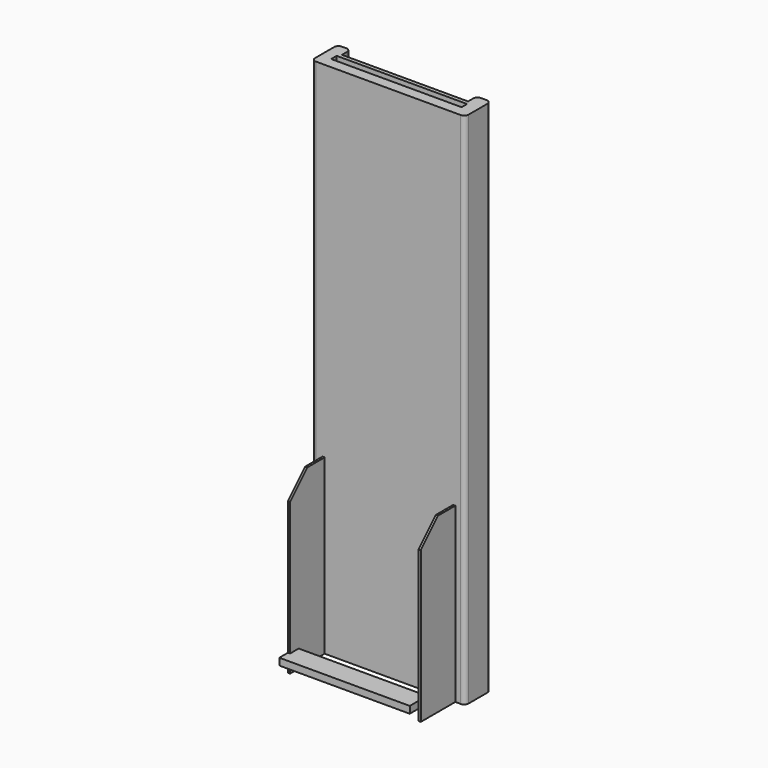
from build123d import *

# Parameters (mm, degrees)
BOX_W                  = 60.4
BOX_H                  = 10
BOX_DEPTH              = 3.2
BOX003_W               = 60.4
BOX003_H               = 250
BOX003_DEPTH           = 3.2
BOX001_W               = 60.4
BOX001_H               = 250
BOX001_DEPTH           = 3.2
BOX004_W               = 58.4
BOX004_H               = 250
BOX004_DEPTH           = 13.2
BOX005_W               = 58.4
BOX005_H               = 250
BOX005_DEPTH           = 13.2
BOX002_W               = 71
BOX002_H               = 240
BOX002_DEPTH           = 15
CUT001_PLACEMENT_ANGLE = 270
BOX006_W               = 1
BOX006_H               = 20
BOX006_DEPTH           = 80
BOX007_W               = 1
BOX007_H               = 20
BOX007_DEPTH           = 80
FILLET_R               = 2
CHAMFER_SIZE           = 10


with BuildPart() as single_magnet:
    # Box → Box (new body)
    with BuildSketch(Plane.XY):
        with Locations((30.2, 5)):
            Rectangle(BOX_W, BOX_H)
    extrude(amount=BOX_DEPTH)


with BuildPart() as f_25_single_magnets001:
    # Box003 → Box003 (new body)
    with BuildSketch(Plane.XY):
        with Locations((30.2, 125)):
            Rectangle(BOX003_W, BOX003_H)
    extrude(amount=BOX003_DEPTH)


with BuildPart() as magnet_cutout:
    # Box001 → Box001 (new body)
    with BuildSketch(Plane(origin=(0, -5, 0), x_dir=(1, 0, 0), z_dir=(0, 0, 1))):
        with Locations((30.2, 125)):
            Rectangle(BOX001_W, BOX001_H)
    extrude(amount=BOX001_DEPTH)

    # Fusion: union 25-Single-Magnets001
    add(f_25_single_magnets001.part)


with BuildPart() as magnet_cutout_1:
    # Fusion placement: moved
    add(magnet_cutout.part.moved(Location((0, -18, 0))))


with BuildPart() as f_25_single_magnets002:
    # Box004 → Box004 (new body)
    with BuildSketch(Plane(origin=(1, 7, 0), x_dir=(1, 0, 0), z_dir=(0, 0, 1))):
        with Locations((29.2, 125)):
            Rectangle(BOX004_W, BOX004_H)
    extrude(amount=BOX004_DEPTH)


with BuildPart() as slide_cutout:
    # Box005 → Box005 (new body)
    with BuildSketch(Plane(origin=(1, -9, 0), x_dir=(1, 0, 0), z_dir=(0, 0, 1))):
        with Locations((29.2, 125)):
            Rectangle(BOX005_W, BOX005_H)
    extrude(amount=BOX005_DEPTH)

    # Fusion001: union 25-Single-Magnets002
    add(f_25_single_magnets002.part)


with BuildPart() as slide_cutout_1:
    # Fusion001 placement: moved
    add(slide_cutout.part.moved(Location((0, 0, 5))))


with BuildPart() as slide_v1:
    # Box002 → Box002 (new body)
    with BuildSketch(Plane(origin=(-5, -5, -5), x_dir=(1, 0, 0), z_dir=(0, 0, 1))):
        with Locations((35.5, 120)):
            Rectangle(BOX002_W, BOX002_H)
    extrude(amount=BOX002_DEPTH)

    # Cut: cut Slide-Cutout
    add(slide_cutout_1.part, mode=Mode.SUBTRACT)

    # Cut001: cut Magnet-Cutout
    add(magnet_cutout_1.part, mode=Mode.SUBTRACT)


with BuildPart() as slide_v1_1:
    # Cut001 placement: moved
    add(slide_v1.part.moved(Location((0, 30, 230))).rotate(Axis((0, 30, 230), (1, 0, 0)), CUT001_PLACEMENT_ANGLE))


with BuildPart() as support:
    # Box006 → Box006 (new body)
    with BuildSketch(Plane(origin=(0, 5, -5), x_dir=(1, 0, 0), z_dir=(0, 0, 1))):
        with Locations((0.5, 10)):
            Rectangle(BOX006_W, BOX006_H)
    extrude(amount=BOX006_DEPTH)


with BuildPart() as chamfer_body:
    # Box007 → Box007 (new body)
    with BuildSketch(Plane(origin=(60.5, 5, -5), x_dir=(1, 0, 0), z_dir=(0, 0, 1))):
        with Locations((0.5, 10)):
            Rectangle(BOX007_W, BOX007_H)
    extrude(amount=BOX007_DEPTH)

    # Fusion002: union Slide-V1, Support
    add(slide_v1_1.part)
    add(support.part)

    # Fillet
    fillet_edges = [chamfer_body.edges().sort_by_distance(p)[0] for p in [
        (-5, 40, 115),
        (-5, 25, 115),
        (1, 40, 109),
        (1, 40, 229),
        (66, 25, 115),
        (66, 40, 115),
        (59.4, 40, 229),
        (59.4, 40, 109),
    ]]
    fillet(fillet_edges, radius=FILLET_R)

    # Chamfer
    chamfer_edges = [chamfer_body.edges().sort_by_distance(p)[0] for p in [
        (0.5, 5, 75),
        (61, 5, 75),
    ]]
    chamfer(chamfer_edges, length=CHAMFER_SIZE)


solid = Compound([single_magnet.part, chamfer_body.part])
